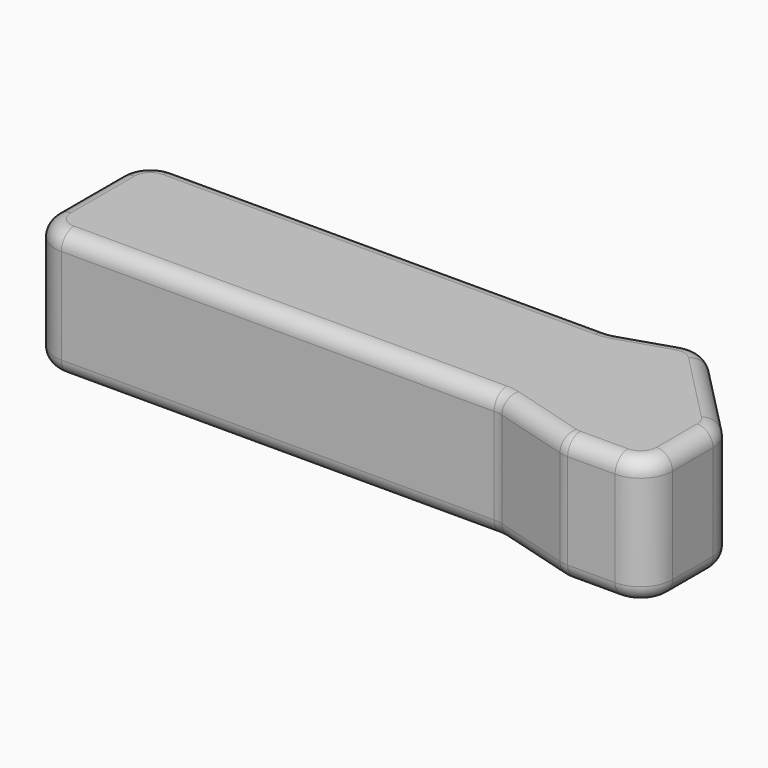
from build123d import *

# Parameters (mm, degrees)
F0_W          = 101.6
F0_H          = 30.48
F1_DEPTH      = 10.16
F1_DEPTH_BACK = 10.16
F3_DEPTH      = 25.4
F4_R          = 5.08
F5_R          = 2.54


with BuildPart() as f1:
    # F0 (on Top) → F1 (new body, two sides)
    with BuildSketch(Plane.XY) as f1_sk:
        Rectangle(F0_W, F0_H)
    extrude(amount=F1_DEPTH)
    extrude(f1_sk.sketch, amount=-F1_DEPTH_BACK)

    # F2 (on face) → F3 (cut)
    with BuildSketch(Plane.XY.offset(10.16)):
        Polygon((37.4322741568, -15.24), (24.0645483136, -11.43), (-50.8, -11.43), (-50.8, -15.24), align=None)
        Polygon((35.8814075589, 15.24), (50.8, 0), (50.8, 15.24), align=None)
        Polygon((-50.8, 15.24), (-50.8, 11.43), (24.0645483136, 11.43), (35.8814075589, 15.24), align=None)
        Polygon((-50.8, -15.24), (-50.8, -11.43), (-50.8, 11.43), (-50.8, 15.24), (35.8814075589, 15.24), (50.8, 15.24), (50.8, 0), (61.7307946086, 0), (61.7307946086, 22.9567158967), (-64.5619183779, 22.9567158967), (-64.5619183779, -22.5874371827), (63.700273633, -22.5874371827), (50.8, -15.24), (37.4322741568, -15.24), align=None)
    extrude(amount=-F3_DEPTH, mode=Mode.SUBTRACT)

    # F4
    f4_edges = [f1.edges().sort_by_distance(p)[0] for p in [
        (35.881408, 15.24, 0),
        (24.064548, 11.43, 0),
        (50.8, -15.24, 0),
        (37.432274, -15.24, 0),
        (24.064548, -11.43, 0),
        (-50.8, -11.43, 0),
        (-50.8, 11.43, 0),
        (50.8, 0, 0),
    ]]
    fillet(f4_edges, radius=F4_R)

    # F5
    f5_edges = [f1.edges().sort_by_distance(p)[0] for p in [
        (30.748411, -13.335, -10.16),
        (37.439103, -15.191126, -10.16),
        (24.057719, -11.478874, -10.16),
        (41.931039, -15.24, -10.16),
        (-11.182628, -11.43, -10.16),
        (49.312102, -13.752102, -10.16),
        (-49.312102, -9.942102, -10.16),
        (50.8, -6.116281, -10.16),
        (-50.8, 0, -10.16),
        (50.4236, -0.153565, -10.16),
        (-49.312102, 9.942102, -10.16),
        (43.714908, 7.237734, -10.16),
        (-11.227078, 11.43, -10.16),
        (35.667245, 14.372668, -10.16),
        (24.054856, 11.491648, -10.16),
        (28.857652, 12.975396, -10.16),
        (30.748411, -13.335, 10.16),
        (37.439103, -15.191126, 10.16),
        (24.057719, -11.478874, 10.16),
        (41.931039, -15.24, 10.16),
        (-11.182628, -11.43, 10.16),
        (49.312102, -13.752102, 10.16),
        (-49.312102, -9.942102, 10.16),
        (50.8, -6.116281, 10.16),
        (-50.8, 0, 10.16),
        (50.4236, -0.153565, 10.16),
        (-49.312102, 9.942102, 10.16),
        (43.714908, 7.237734, 10.16),
        (-11.227078, 11.43, 10.16),
        (35.667245, 14.372668, 10.16),
        (24.054856, 11.491648, 10.16),
        (28.857652, 12.975396, 10.16),
    ]]
    fillet(f5_edges, radius=F5_R)


solid = f1.part
